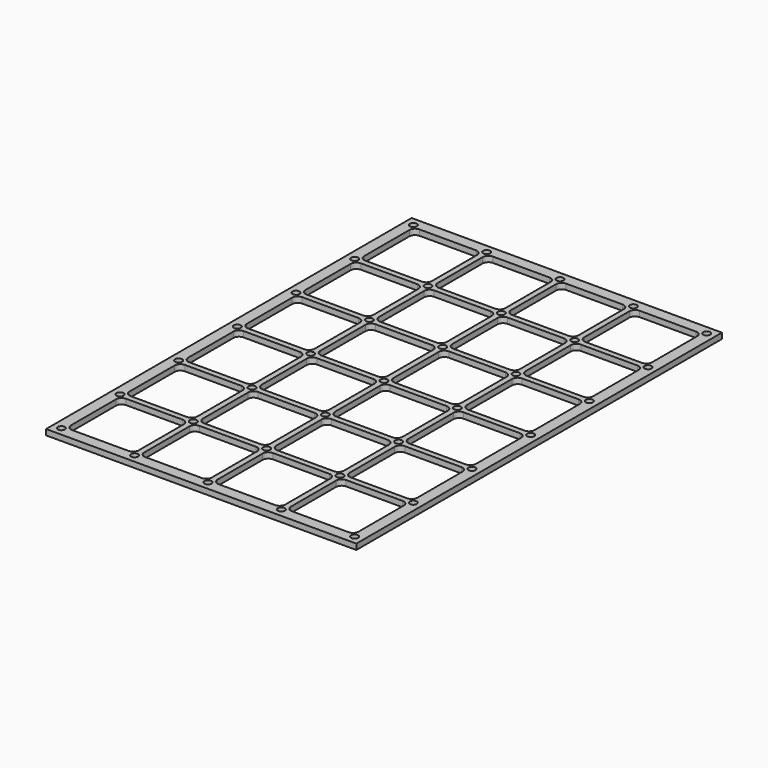
from build123d import *

# Parameters (mm, degrees)
F0_W     = 349.25
F0_H     = 514.35
F0_R     = 3.96875
F1_DEPTH = 6.35


with BuildPart() as f1:
    # F0 (on Top) → F1 (new body)
    with BuildSketch(Plane.XY):
        with Locations((174.625, 257.175)):
            Rectangle(F0_W, F0_H)
        with Locations((9.525, 9.525)):
            Circle(F0_R, mode=Mode.SUBTRACT)
        with BuildLine():
            Line((82.55, 12.7), (19.05, 12.7))
            ThreePointArc((19.05, 12.7), (14.559872, 14.559872), (12.7, 19.05))
            Line((12.7, 19.05), (12.7, 82.55))
            ThreePointArc((12.7, 82.55), (14.559872, 87.040128), (19.05, 88.9))
            Line((19.05, 88.9), (82.55, 88.9))
            ThreePointArc((82.55, 88.9), (87.040128, 87.040128), (88.9, 82.55))
            Line((88.9, 82.55), (88.9, 19.05))
            ThreePointArc((88.9, 19.05), (87.040128, 14.559872), (82.55, 12.7))
        make_face(mode=Mode.SUBTRACT)
        with Locations((9.525, 92.075)):
            Circle(F0_R, mode=Mode.SUBTRACT)
        with Locations((92.075, 9.525)):
            Circle(F0_R, mode=Mode.SUBTRACT)
        with BuildLine():
            ThreePointArc((95.25, 82.55), (97.109872, 87.040128), (101.6, 88.9))
            Line((101.6, 88.9), (165.1, 88.9))
            ThreePointArc((165.1, 88.9), (169.590128, 87.040128), (171.45, 82.55))
            Line((171.45, 82.55), (171.45, 19.05))
            ThreePointArc((171.45, 19.05), (169.590128, 14.559872), (165.1, 12.7))
            Line((165.1, 12.7), (101.6, 12.7))
            ThreePointArc((101.6, 12.7), (97.109872, 14.559872), (95.25, 19.05))
            Line((95.25, 19.05), (95.25, 82.55))
        make_face(mode=Mode.SUBTRACT)
        with Locations((92.075, 92.075)):
            Circle(F0_R, mode=Mode.SUBTRACT)
        with Locations((9.525, 174.625)):
            Circle(F0_R, mode=Mode.SUBTRACT)
        with BuildLine():
            ThreePointArc((12.7, 165.1), (14.559872, 169.590128), (19.05, 171.45))
            Line((19.05, 171.45), (82.55, 171.45))
            ThreePointArc((82.55, 171.45), (87.040128, 169.590128), (88.9, 165.1))
            Line((88.9, 165.1), (88.9, 101.6))
            ThreePointArc((88.9, 101.6), (87.040128, 97.109872), (82.55, 95.25))
            Line((82.55, 95.25), (19.05, 95.25))
            ThreePointArc((19.05, 95.25), (14.559872, 97.109872), (12.7, 101.6))
            Line((12.7, 101.6), (12.7, 165.1))
        make_face(mode=Mode.SUBTRACT)
        with BuildLine():
            ThreePointArc((12.7, 247.65), (14.559872, 252.140128), (19.05, 254))
            Line((19.05, 254), (82.55, 254))
            ThreePointArc((82.55, 254), (87.040128, 252.140128), (88.9, 247.65))
            Line((88.9, 247.65), (88.9, 184.15))
            ThreePointArc((88.9, 184.15), (87.040128, 179.659872), (82.55, 177.8))
            Line((82.55, 177.8), (19.05, 177.8))
            ThreePointArc((19.05, 177.8), (14.559872, 179.659872), (12.7, 184.15))
            Line((12.7, 184.15), (12.7, 247.65))
        make_face(mode=Mode.SUBTRACT)
        with Locations((92.075, 174.625)):
            Circle(F0_R, mode=Mode.SUBTRACT)
        with BuildLine():
            ThreePointArc((95.25, 165.1), (97.109872, 169.590128), (101.6, 171.45))
            Line((101.6, 171.45), (165.1, 171.45))
            ThreePointArc((165.1, 171.45), (169.590128, 169.590128), (171.45, 165.1))
            Line((171.45, 165.1), (171.45, 101.6))
            ThreePointArc((171.45, 101.6), (169.590128, 97.109872), (165.1, 95.25))
            Line((165.1, 95.25), (101.6, 95.25))
            ThreePointArc((101.6, 95.25), (97.109872, 97.109872), (95.25, 101.6))
            Line((95.25, 101.6), (95.25, 165.1))
        make_face(mode=Mode.SUBTRACT)
        with BuildLine():
            ThreePointArc((95.25, 247.65), (97.109872, 252.140128), (101.6, 254))
            Line((101.6, 254), (165.1, 254))
            ThreePointArc((165.1, 254), (169.590128, 252.140128), (171.45, 247.65))
            Line((171.45, 247.65), (171.45, 184.15))
            ThreePointArc((171.45, 184.15), (169.590128, 179.659872), (165.1, 177.8))
            Line((165.1, 177.8), (101.6, 177.8))
            ThreePointArc((101.6, 177.8), (97.109872, 179.659872), (95.25, 184.15))
            Line((95.25, 184.15), (95.25, 247.65))
        make_face(mode=Mode.SUBTRACT)
        with Locations((174.625, 9.525)):
            Circle(F0_R, mode=Mode.SUBTRACT)
        with BuildLine():
            ThreePointArc((177.8, 82.55), (179.659872, 87.040128), (184.15, 88.9))
            Line((184.15, 88.9), (247.65, 88.9))
            ThreePointArc((247.65, 88.9), (252.140128, 87.040128), (254, 82.55))
            Line((254, 82.55), (254, 19.05))
            ThreePointArc((254, 19.05), (252.140128, 14.559872), (247.65, 12.7))
            Line((247.65, 12.7), (184.15, 12.7))
            ThreePointArc((184.15, 12.7), (179.659872, 14.559872), (177.8, 19.05))
            Line((177.8, 19.05), (177.8, 82.55))
        make_face(mode=Mode.SUBTRACT)
        with Locations((257.175, 9.525)):
            Circle(F0_R, mode=Mode.SUBTRACT)
        with Locations((174.625, 92.075)):
            Circle(F0_R, mode=Mode.SUBTRACT)
        with Locations((257.175, 92.075)):
            Circle(F0_R, mode=Mode.SUBTRACT)
        with BuildLine():
            ThreePointArc((260.35, 82.55), (262.209872, 87.040128), (266.7, 88.9))
            Line((266.7, 88.9), (330.2, 88.9))
            ThreePointArc((330.2, 88.9), (334.690128, 87.040128), (336.55, 82.55))
            Line((336.55, 82.55), (336.55, 19.05))
            ThreePointArc((336.55, 19.05), (334.690128, 14.559872), (330.2, 12.7))
            Line((330.2, 12.7), (266.7, 12.7))
            ThreePointArc((266.7, 12.7), (262.209872, 14.559872), (260.35, 19.05))
            Line((260.35, 19.05), (260.35, 82.55))
        make_face(mode=Mode.SUBTRACT)
        with Locations((339.725, 9.525)):
            Circle(F0_R, mode=Mode.SUBTRACT)
        with Locations((339.725, 92.075)):
            Circle(F0_R, mode=Mode.SUBTRACT)
        with BuildLine():
            ThreePointArc((177.8, 165.1), (179.659872, 169.590128), (184.15, 171.45))
            Line((184.15, 171.45), (247.65, 171.45))
            ThreePointArc((247.65, 171.45), (252.140128, 169.590128), (254, 165.1))
            Line((254, 165.1), (254, 101.6))
            ThreePointArc((254, 101.6), (252.140128, 97.109872), (247.65, 95.25))
            Line((247.65, 95.25), (184.15, 95.25))
            ThreePointArc((184.15, 95.25), (179.659872, 97.109872), (177.8, 101.6))
            Line((177.8, 101.6), (177.8, 165.1))
        make_face(mode=Mode.SUBTRACT)
        with Locations((174.625, 174.625)):
            Circle(F0_R, mode=Mode.SUBTRACT)
        with Locations((257.175, 174.625)):
            Circle(F0_R, mode=Mode.SUBTRACT)
        with BuildLine():
            ThreePointArc((177.8, 247.65), (179.659872, 252.140128), (184.15, 254))
            Line((184.15, 254), (247.65, 254))
            ThreePointArc((247.65, 254), (252.140128, 252.140128), (254, 247.65))
            Line((254, 247.65), (254, 184.15))
            ThreePointArc((254, 184.15), (252.140128, 179.659872), (247.65, 177.8))
            Line((247.65, 177.8), (184.15, 177.8))
            ThreePointArc((184.15, 177.8), (179.659872, 179.659872), (177.8, 184.15))
            Line((177.8, 184.15), (177.8, 247.65))
        make_face(mode=Mode.SUBTRACT)
        with BuildLine():
            ThreePointArc((260.35, 165.1), (262.209872, 169.590128), (266.7, 171.45))
            Line((266.7, 171.45), (330.2, 171.45))
            ThreePointArc((330.2, 171.45), (334.690128, 169.590128), (336.55, 165.1))
            Line((336.55, 165.1), (336.55, 101.6))
            ThreePointArc((336.55, 101.6), (334.690128, 97.109872), (330.2, 95.25))
            Line((330.2, 95.25), (266.7, 95.25))
            ThreePointArc((266.7, 95.25), (262.209872, 97.109872), (260.35, 101.6))
            Line((260.35, 101.6), (260.35, 165.1))
        make_face(mode=Mode.SUBTRACT)
        with Locations((339.725, 174.625)):
            Circle(F0_R, mode=Mode.SUBTRACT)
        with BuildLine():
            ThreePointArc((260.35, 247.65), (262.209872, 252.140128), (266.7, 254))
            Line((266.7, 254), (330.2, 254))
            ThreePointArc((330.2, 254), (334.690128, 252.140128), (336.55, 247.65))
            Line((336.55, 247.65), (336.55, 184.15))
            ThreePointArc((336.55, 184.15), (334.690128, 179.659872), (330.2, 177.8))
            Line((330.2, 177.8), (266.7, 177.8))
            ThreePointArc((266.7, 177.8), (262.209872, 179.659872), (260.35, 184.15))
            Line((260.35, 184.15), (260.35, 247.65))
        make_face(mode=Mode.SUBTRACT)
        with Locations((9.525, 257.175)):
            Circle(F0_R, mode=Mode.SUBTRACT)
        with BuildLine():
            ThreePointArc((12.7, 330.2), (14.559872, 334.690128), (19.05, 336.55))
            Line((19.05, 336.55), (82.55, 336.55))
            ThreePointArc((82.55, 336.55), (87.040128, 334.690128), (88.9, 330.2))
            Line((88.9, 330.2), (88.9, 266.7))
            ThreePointArc((88.9, 266.7), (87.040128, 262.209872), (82.55, 260.35))
            Line((82.55, 260.35), (19.05, 260.35))
            ThreePointArc((19.05, 260.35), (14.559872, 262.209872), (12.7, 266.7))
            Line((12.7, 266.7), (12.7, 330.2))
        make_face(mode=Mode.SUBTRACT)
        with Locations((9.525, 339.725)):
            Circle(F0_R, mode=Mode.SUBTRACT)
        with BuildLine():
            ThreePointArc((12.7, 412.75), (14.559872, 417.240128), (19.05, 419.1))
            Line((19.05, 419.1), (82.55, 419.1))
            ThreePointArc((82.55, 419.1), (87.040128, 417.240128), (88.9, 412.75))
            Line((88.9, 412.75), (88.9, 349.25))
            ThreePointArc((88.9, 349.25), (87.040128, 344.759872), (82.55, 342.9))
            Line((82.55, 342.9), (19.05, 342.9))
            ThreePointArc((19.05, 342.9), (14.559872, 344.759872), (12.7, 349.25))
            Line((12.7, 349.25), (12.7, 412.75))
        make_face(mode=Mode.SUBTRACT)
        with Locations((92.075, 257.175)):
            Circle(F0_R, mode=Mode.SUBTRACT)
        with BuildLine():
            ThreePointArc((95.25, 330.2), (97.109872, 334.690128), (101.6, 336.55))
            Line((101.6, 336.55), (165.1, 336.55))
            ThreePointArc((165.1, 336.55), (169.590128, 334.690128), (171.45, 330.2))
            Line((171.45, 330.2), (171.45, 266.7))
            ThreePointArc((171.45, 266.7), (169.590128, 262.209872), (165.1, 260.35))
            Line((165.1, 260.35), (101.6, 260.35))
            ThreePointArc((101.6, 260.35), (97.109872, 262.209872), (95.25, 266.7))
            Line((95.25, 266.7), (95.25, 330.2))
        make_face(mode=Mode.SUBTRACT)
        with Locations((92.075, 339.725)):
            Circle(F0_R, mode=Mode.SUBTRACT)
        with BuildLine():
            ThreePointArc((95.25, 412.75), (97.109872, 417.240128), (101.6, 419.1))
            Line((101.6, 419.1), (165.1, 419.1))
            ThreePointArc((165.1, 419.1), (169.590128, 417.240128), (171.45, 412.75))
            Line((171.45, 412.75), (171.45, 349.25))
            ThreePointArc((171.45, 349.25), (169.590128, 344.759872), (165.1, 342.9))
            Line((165.1, 342.9), (101.6, 342.9))
            ThreePointArc((101.6, 342.9), (97.109872, 344.759872), (95.25, 349.25))
            Line((95.25, 349.25), (95.25, 412.75))
        make_face(mode=Mode.SUBTRACT)
        with Locations((9.525, 422.275)):
            Circle(F0_R, mode=Mode.SUBTRACT)
        with Locations((9.525, 504.825)):
            Circle(F0_R, mode=Mode.SUBTRACT)
        with BuildLine():
            ThreePointArc((12.7, 495.3), (14.559872, 499.790128), (19.05, 501.65))
            Line((19.05, 501.65), (82.55, 501.65))
            ThreePointArc((82.55, 501.65), (87.040128, 499.790128), (88.9, 495.3))
            Line((88.9, 495.3), (88.9, 431.8))
            ThreePointArc((88.9, 431.8), (87.040128, 427.309872), (82.55, 425.45))
            Line((82.55, 425.45), (19.05, 425.45))
            ThreePointArc((19.05, 425.45), (14.559872, 427.309872), (12.7, 431.8))
            Line((12.7, 431.8), (12.7, 495.3))
        make_face(mode=Mode.SUBTRACT)
        with Locations((92.075, 422.275)):
            Circle(F0_R, mode=Mode.SUBTRACT)
        with Locations((92.075, 504.825)):
            Circle(F0_R, mode=Mode.SUBTRACT)
        with BuildLine():
            ThreePointArc((95.25, 495.3), (97.109872, 499.790128), (101.6, 501.65))
            Line((101.6, 501.65), (165.1, 501.65))
            ThreePointArc((165.1, 501.65), (169.590128, 499.790128), (171.45, 495.3))
            Line((171.45, 495.3), (171.45, 431.8))
            ThreePointArc((171.45, 431.8), (169.590128, 427.309872), (165.1, 425.45))
            Line((165.1, 425.45), (101.6, 425.45))
            ThreePointArc((101.6, 425.45), (97.109872, 427.309872), (95.25, 431.8))
            Line((95.25, 431.8), (95.25, 495.3))
        make_face(mode=Mode.SUBTRACT)
        with Locations((174.625, 257.175)):
            Circle(F0_R, mode=Mode.SUBTRACT)
        with BuildLine():
            ThreePointArc((177.8, 330.2), (179.659872, 334.690128), (184.15, 336.55))
            Line((184.15, 336.55), (247.65, 336.55))
            ThreePointArc((247.65, 336.55), (252.140128, 334.690128), (254, 330.2))
            Line((254, 330.2), (254, 266.7))
            ThreePointArc((254, 266.7), (252.140128, 262.209872), (247.65, 260.35))
            Line((247.65, 260.35), (184.15, 260.35))
            ThreePointArc((184.15, 260.35), (179.659872, 262.209872), (177.8, 266.7))
            Line((177.8, 266.7), (177.8, 330.2))
        make_face(mode=Mode.SUBTRACT)
        with Locations((257.175, 257.175)):
            Circle(F0_R, mode=Mode.SUBTRACT)
        with Locations((174.625, 339.725)):
            Circle(F0_R, mode=Mode.SUBTRACT)
        with BuildLine():
            ThreePointArc((177.8, 412.75), (179.659872, 417.240128), (184.15, 419.1))
            Line((184.15, 419.1), (247.65, 419.1))
            ThreePointArc((247.65, 419.1), (252.140128, 417.240128), (254, 412.75))
            Line((254, 412.75), (254, 349.25))
            ThreePointArc((254, 349.25), (252.140128, 344.759872), (247.65, 342.9))
            Line((247.65, 342.9), (184.15, 342.9))
            ThreePointArc((184.15, 342.9), (179.659872, 344.759872), (177.8, 349.25))
            Line((177.8, 349.25), (177.8, 412.75))
        make_face(mode=Mode.SUBTRACT)
        with Locations((257.175, 339.725)):
            Circle(F0_R, mode=Mode.SUBTRACT)
        with BuildLine():
            ThreePointArc((260.35, 330.2), (262.209872, 334.690128), (266.7, 336.55))
            Line((266.7, 336.55), (330.2, 336.55))
            ThreePointArc((330.2, 336.55), (334.690128, 334.690128), (336.55, 330.2))
            Line((336.55, 330.2), (336.55, 266.7))
            ThreePointArc((336.55, 266.7), (334.690128, 262.209872), (330.2, 260.35))
            Line((330.2, 260.35), (266.7, 260.35))
            ThreePointArc((266.7, 260.35), (262.209872, 262.209872), (260.35, 266.7))
            Line((260.35, 266.7), (260.35, 330.2))
        make_face(mode=Mode.SUBTRACT)
        with Locations((339.725, 257.175)):
            Circle(F0_R, mode=Mode.SUBTRACT)
        with BuildLine():
            ThreePointArc((260.35, 412.75), (262.209872, 417.240128), (266.7, 419.1))
            Line((266.7, 419.1), (330.2, 419.1))
            ThreePointArc((330.2, 419.1), (334.690128, 417.240128), (336.55, 412.75))
            Line((336.55, 412.75), (336.55, 349.25))
            ThreePointArc((336.55, 349.25), (334.690128, 344.759872), (330.2, 342.9))
            Line((330.2, 342.9), (266.7, 342.9))
            ThreePointArc((266.7, 342.9), (262.209872, 344.759872), (260.35, 349.25))
            Line((260.35, 349.25), (260.35, 412.75))
        make_face(mode=Mode.SUBTRACT)
        with Locations((339.725, 339.725)):
            Circle(F0_R, mode=Mode.SUBTRACT)
        with Locations((174.625, 422.275)):
            Circle(F0_R, mode=Mode.SUBTRACT)
        with Locations((257.175, 422.275)):
            Circle(F0_R, mode=Mode.SUBTRACT)
        with BuildLine():
            ThreePointArc((177.8, 495.3), (179.659872, 499.790128), (184.15, 501.65))
            Line((184.15, 501.65), (247.65, 501.65))
            ThreePointArc((247.65, 501.65), (252.140128, 499.790128), (254, 495.3))
            Line((254, 495.3), (254, 431.8))
            ThreePointArc((254, 431.8), (252.140128, 427.309872), (247.65, 425.45))
            Line((247.65, 425.45), (184.15, 425.45))
            ThreePointArc((184.15, 425.45), (179.659872, 427.309872), (177.8, 431.8))
            Line((177.8, 431.8), (177.8, 495.3))
        make_face(mode=Mode.SUBTRACT)
        with Locations((174.625, 504.825)):
            Circle(F0_R, mode=Mode.SUBTRACT)
        with Locations((257.175, 504.825)):
            Circle(F0_R, mode=Mode.SUBTRACT)
        with Locations((339.725, 422.275)):
            Circle(F0_R, mode=Mode.SUBTRACT)
        with BuildLine():
            ThreePointArc((260.35, 495.3), (262.209872, 499.790128), (266.7, 501.65))
            Line((266.7, 501.65), (330.2, 501.65))
            ThreePointArc((330.2, 501.65), (334.690128, 499.790128), (336.55, 495.3))
            Line((336.55, 495.3), (336.55, 431.8))
            ThreePointArc((336.55, 431.8), (334.690128, 427.309872), (330.2, 425.45))
            Line((330.2, 425.45), (266.7, 425.45))
            ThreePointArc((266.7, 425.45), (262.209872, 427.309872), (260.35, 431.8))
            Line((260.35, 431.8), (260.35, 495.3))
        make_face(mode=Mode.SUBTRACT)
        with Locations((339.725, 504.825)):
            Circle(F0_R, mode=Mode.SUBTRACT)
    extrude(amount=F1_DEPTH)


solid = f1.part
